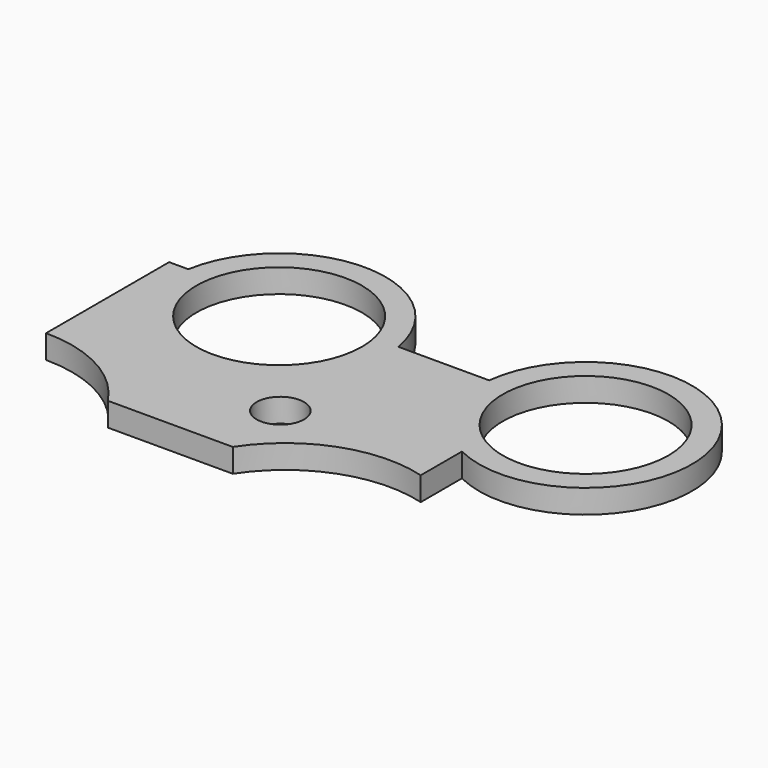
from build123d import *

# Parameters (mm, degrees)
CYLINDER002_R     = 1
CYLINDER002_DEPTH = 10
CYLINDER001_R     = 5.5
CYLINDER001_DEPTH = 10
CYLINDER003_R     = 3.5
CYLINDER003_DEPTH = 10
CYLINDER004_R     = 3.5
CYLINDER004_DEPTH = 10
CYLINDER_R        = 5.5
CYLINDER_DEPTH    = 10
CYLINDER005_R     = 4.5
CYLINDER005_DEPTH = 1
CYLINDER006_R     = 4.5
CYLINDER006_DEPTH = 1
BOX_W             = 16
BOX_H             = 9
BOX_DEPTH         = 1


with BuildPart() as cylinder002_post_hole:
    # Cylinder002 → Cylinder002 (new body)
    with BuildSketch(Plane(origin=(9, 6, 0), x_dir=(1, 0, 0), z_dir=(0, 0, 1))):
        Circle(CYLINDER002_R)
    extrude(amount=CYLINDER002_DEPTH)


with BuildPart() as cylinder001_b:
    # Cylinder001 → Cylinder001 (new body)
    with BuildSketch(Plane(origin=(14, 0, 0), x_dir=(1, 0, 0), z_dir=(0, 0, 1))):
        Circle(CYLINDER001_R)
    extrude(amount=CYLINDER001_DEPTH)


with BuildPart() as cylinder003_b2_inner:
    # Cylinder003 → Cylinder003 (new body)
    with BuildSketch(Plane(origin=(17.5, 11.5, 0), x_dir=(1, 0, 0), z_dir=(0, 0, 1))):
        Circle(CYLINDER003_R)
    extrude(amount=CYLINDER003_DEPTH)


with BuildPart() as cylinder004_a2_inner:
    # Cylinder004 → Cylinder004 (new body)
    with BuildSketch(Plane(origin=(4.75, 11.25, 0), x_dir=(1, 0, 0), z_dir=(0, 0, 1))):
        Circle(CYLINDER004_R)
    extrude(amount=CYLINDER004_DEPTH)


with BuildPart() as fusion001:
    # Cylinder → Cylinder (new body)
    with BuildSketch(Plane(origin=(-0.5, 0, 0), x_dir=(1, 0, 0), z_dir=(0, 0, 1))):
        Circle(CYLINDER_R)
    extrude(amount=CYLINDER_DEPTH)

    # Fusion001: union Cylinder002(post_hole), Cylinder001(B), Cylinder003(B2)(inner), Cylinder004(A2)(inner)
    add(cylinder002_post_hole.part)
    add(cylinder001_b.part)
    add(cylinder003_b2_inner.part)
    add(cylinder004_a2_inner.part)


with BuildPart() as cylinder003_b2_outer:
    # Cylinder005 → Cylinder005 (new body)
    with BuildSketch(Plane(origin=(17.5, 11.5, 0), x_dir=(1, 0, 0), z_dir=(0, 0, 1))):
        Circle(CYLINDER005_R)
    extrude(amount=CYLINDER005_DEPTH)


with BuildPart() as cylinder004_a2_outer:
    # Cylinder006 → Cylinder006 (new body)
    with BuildSketch(Plane(origin=(4.75, 11.25, 0), x_dir=(1, 0, 0), z_dir=(0, 0, 1))):
        Circle(CYLINDER006_R)
    extrude(amount=CYLINDER006_DEPTH)


with BuildPart() as cut_button_well:
    # Box → Box (new body)
    with BuildSketch(Plane(origin=(-0.5, 3, 0), x_dir=(1, 0, 0), z_dir=(0, 0, 1))):
        with Locations((8, 4.5)):
            Rectangle(BOX_W, BOX_H)
    extrude(amount=BOX_DEPTH)

    # Fusion: union Cylinder003(B2)(outer), Cylinder004(A2)(outer)
    add(cylinder003_b2_outer.part)
    add(cylinder004_a2_outer.part)

    # Cut: cut Fusion001
    add(fusion001.part, mode=Mode.SUBTRACT)


solid = cut_button_well.part
